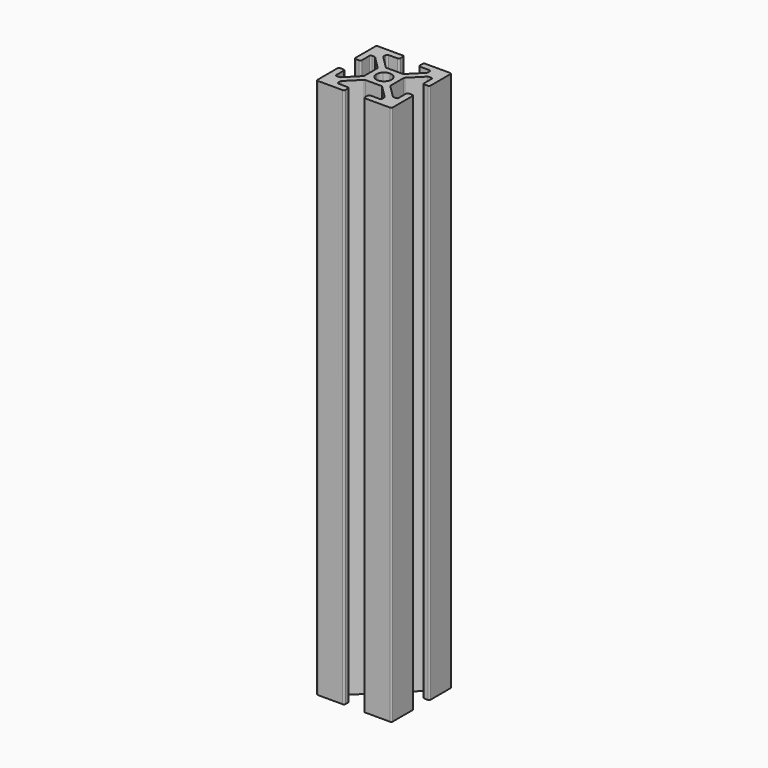
from build123d import *

# Parameters (mm, degrees)
F1_DEPTH = 180


with BuildPart() as f1:
    # F0 (on Top) → F1 (new body)
    with BuildSketch(Plane.XY):
        with BuildLine():
            Line((-3.75, 12.5), (-12, 12.5))
            ThreePointArc((-12, 12.5), (-12.353553, 12.353553), (-12.5, 12))
            Line((-12.5, 12), (-12.5, 3.75))
            ThreePointArc((-12.5, 3.75), (-12.353553, 3.396447), (-12, 3.25))
            Line((-12, 3.25), (-10.87, 3.25))
            ThreePointArc((-10.87, 3.25), (-10.516447, 3.396447), (-10.37, 3.75))
            Line((-10.37, 3.75), (-10.37, 6.845))
            ThreePointArc((-10.37, 6.845), (-10.223553, 7.198553), (-9.87, 7.345))
            Line((-9.87, 7.345), (-9.058244, 7.345))
            ThreePointArc((-9.058244, 7.345), (-8.866903, 7.30694), (-8.704691, 7.198553))
            Line((-8.704691, 7.198553), (-4.526447, 3.020309))
            ThreePointArc((-4.526447, 3.020309), (-4.41806, 2.858097), (-4.38, 2.666756))
            Line((-4.38, 2.666756), (-4.38, 0))
            Line((-4.38, 0), (-4.38, -2.666756))
            ThreePointArc((-4.38, -2.666756), (-4.41806, -2.858097), (-4.526447, -3.020309))
            Line((-4.526447, -3.020309), (-8.704691, -7.198553))
            ThreePointArc((-8.704691, -7.198553), (-8.866903, -7.30694), (-9.058244, -7.345))
            Line((-9.058244, -7.345), (-9.87, -7.345))
            ThreePointArc((-9.87, -7.345), (-10.223553, -7.198553), (-10.37, -6.845))
            Line((-10.37, -6.845), (-10.37, -3.75))
            ThreePointArc((-10.37, -3.75), (-10.516447, -3.396447), (-10.87, -3.25))
            Line((-10.87, -3.25), (-12, -3.25))
            ThreePointArc((-12, -3.25), (-12.353553, -3.396447), (-12.5, -3.75))
            Line((-12.5, -3.75), (-12.5, -12))
            ThreePointArc((-12.5, -12), (-12.353553, -12.353553), (-12, -12.5))
            Line((-12, -12.5), (-3.75, -12.5))
            ThreePointArc((-3.75, -12.5), (-3.396447, -12.353553), (-3.25, -12))
            Line((-3.25, -12), (-3.25, -10.87))
            ThreePointArc((-3.25, -10.87), (-3.396447, -10.516447), (-3.75, -10.37))
            Line((-3.75, -10.37), (-6.845, -10.37))
            ThreePointArc((-6.845, -10.37), (-7.198553, -10.223553), (-7.345, -9.87))
            Line((-7.345, -9.87), (-7.345, -9.058244))
            ThreePointArc((-7.345, -9.058244), (-7.30694, -8.866903), (-7.198553, -8.704691))
            Line((-7.198553, -8.704691), (-3.020309, -4.526447))
            ThreePointArc((-3.020309, -4.526447), (-2.858097, -4.41806), (-2.666756, -4.38))
            Line((-2.666756, -4.38), (0, -4.38))
            Line((0, -4.38), (2.666756, -4.38))
            ThreePointArc((2.666756, -4.38), (2.858097, -4.41806), (3.020309, -4.526447))
            Line((3.020309, -4.526447), (7.198553, -8.704691))
            ThreePointArc((7.198553, -8.704691), (7.30694, -8.866903), (7.345, -9.058244))
            Line((7.345, -9.058244), (7.345, -9.87))
            ThreePointArc((7.345, -9.87), (7.198553, -10.223553), (6.845, -10.37))
            Line((6.845, -10.37), (3.75, -10.37))
            ThreePointArc((3.75, -10.37), (3.396447, -10.516447), (3.25, -10.87))
            Line((3.25, -10.87), (3.25, -12))
            ThreePointArc((3.25, -12), (3.396447, -12.353553), (3.75, -12.5))
            Line((3.75, -12.5), (12, -12.5))
            ThreePointArc((12, -12.5), (12.353553, -12.353553), (12.5, -12))
            Line((12.5, -12), (12.5, -3.75))
            ThreePointArc((12.5, -3.75), (12.353553, -3.396447), (12, -3.25))
            Line((12, -3.25), (10.87, -3.25))
            ThreePointArc((10.87, -3.25), (10.516447, -3.396447), (10.37, -3.75))
            Line((10.37, -3.75), (10.37, -6.845))
            ThreePointArc((10.37, -6.845), (10.223553, -7.198553), (9.87, -7.345))
            Line((9.87, -7.345), (9.058244, -7.345))
            ThreePointArc((9.058244, -7.345), (8.866903, -7.30694), (8.704691, -7.198553))
            Line((8.704691, -7.198553), (4.526447, -3.020309))
            ThreePointArc((4.526447, -3.020309), (4.41806, -2.858097), (4.38, -2.666756))
            Line((4.38, -2.666756), (4.38, 0))
            Line((4.38, 0), (4.38, 2.666756))
            ThreePointArc((4.38, 2.666756), (4.41806, 2.858097), (4.526447, 3.020309))
            Line((4.526447, 3.020309), (8.704691, 7.198553))
            ThreePointArc((8.704691, 7.198553), (8.866903, 7.30694), (9.058244, 7.345))
            Line((9.058244, 7.345), (9.87, 7.345))
            ThreePointArc((9.87, 7.345), (10.223553, 7.198553), (10.37, 6.845))
            Line((10.37, 6.845), (10.37, 3.75))
            ThreePointArc((10.37, 3.75), (10.516447, 3.396447), (10.87, 3.25))
            Line((10.87, 3.25), (12, 3.25))
            ThreePointArc((12, 3.25), (12.353553, 3.396447), (12.5, 3.75))
            Line((12.5, 3.75), (12.5, 12))
            ThreePointArc((12.5, 12), (12.353553, 12.353553), (12, 12.5))
            Line((12, 12.5), (3.75, 12.5))
            ThreePointArc((3.75, 12.5), (3.396447, 12.353553), (3.25, 12))
            Line((3.25, 12), (3.25, 10.87))
            ThreePointArc((3.25, 10.87), (3.396447, 10.516447), (3.75, 10.37))
            Line((3.75, 10.37), (6.845, 10.37))
            ThreePointArc((6.845, 10.37), (7.198553, 10.223553), (7.345, 9.87))
            Line((7.345, 9.87), (7.345, 9.058244))
            ThreePointArc((7.345, 9.058244), (7.30694, 8.866903), (7.198553, 8.704691))
            Line((7.198553, 8.704691), (3.020309, 4.526447))
            ThreePointArc((3.020309, 4.526447), (2.858097, 4.41806), (2.666756, 4.38))
            Line((2.666756, 4.38), (0, 4.38))
            Line((0, 4.38), (-2.666756, 4.38))
            ThreePointArc((-2.666756, 4.38), (-2.858097, 4.41806), (-3.020309, 4.526447))
            Line((-3.020309, 4.526447), (-7.198553, 8.704691))
            ThreePointArc((-7.198553, 8.704691), (-7.30694, 8.866903), (-7.345, 9.058244))
            Line((-7.345, 9.058244), (-7.345, 9.87))
            ThreePointArc((-7.345, 9.87), (-7.198553, 10.223553), (-6.845, 10.37))
            Line((-6.845, 10.37), (-3.75, 10.37))
            ThreePointArc((-3.75, 10.37), (-3.396447, 10.516447), (-3.25, 10.87))
            Line((-3.25, 10.87), (-3.25, 12))
            ThreePointArc((-3.25, 12), (-3.396447, 12.353553), (-3.75, 12.5))
        make_face()
        with BuildLine():
            ThreePointArc((-1.767767, 1.767767), (-0.956709, 2.309699), (0, 2.5))
            ThreePointArc((0, 2.5), (0.956709, 2.309699), (1.767767, 1.767767))
            ThreePointArc((1.767767, 1.767767), (2.309699, 0.956709), (2.5, 0))
            ThreePointArc((2.5, 0), (2.309699, -0.956709), (1.767767, -1.767767))
            ThreePointArc((1.767767, -1.767767), (0.956709, -2.309699), (0, -2.5))
            ThreePointArc((0, -2.5), (-0.956709, -2.309699), (-1.767767, -1.767767))
            ThreePointArc((-1.767767, -1.767767), (-2.309699, -0.956709), (-2.5, 0))
            ThreePointArc((-2.5, 0), (-2.309699, 0.956709), (-1.767767, 1.767767))
        make_face(mode=Mode.SUBTRACT)
    extrude(amount=F1_DEPTH)


solid = f1.part
